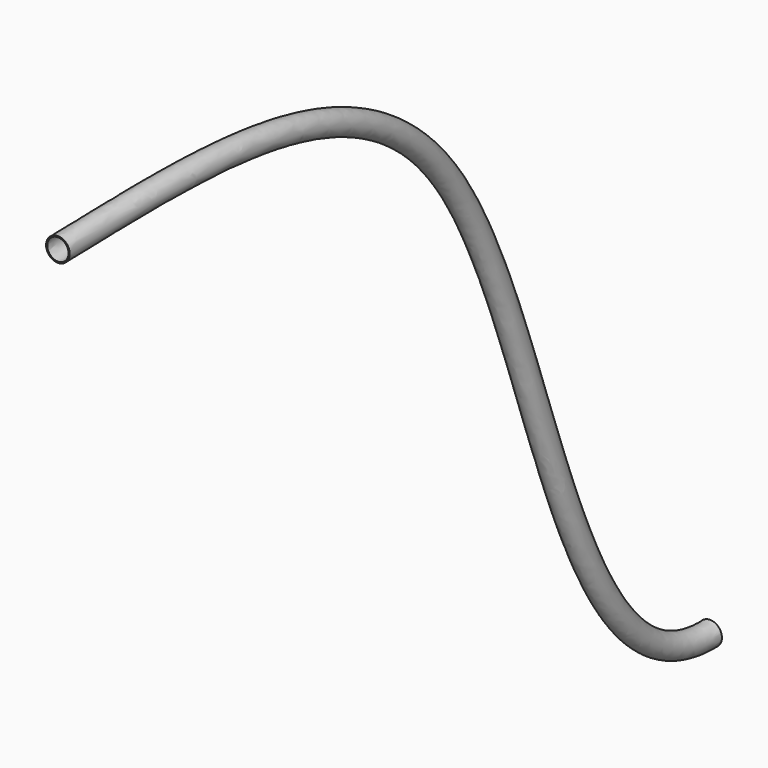
from build123d import *

# Parameters (mm, degrees)
F2_R   = 20
F2_R_2 = 18


with BuildPart() as f3:
    # F3: sweep along a path in F1
    with BuildLine(Plane.YZ) as f3_path:
        add(Plane.YZ * Edge.make_bspline(
            [(0, 0), (332.8908466906, 7.206481744), (984.3871711681, 44.8552168562), (1068.7758651204, -1139.1921159776), (1377.814, -1131.078)],
            knots=[0, 0, 0, 0, 0.4733468587, 1, 1, 1, 1], degree=3))
    # F2 (on Front) → F3 (sweep)
    with BuildSketch(Plane.XZ):
        with Locations((0, 2.5200533755)):
            Circle(F2_R)
        with Locations((0, 2.5200533755)):
            Circle(F2_R_2, mode=Mode.SUBTRACT)
    sweep(path=f3_path.line)


solid = f3.part
